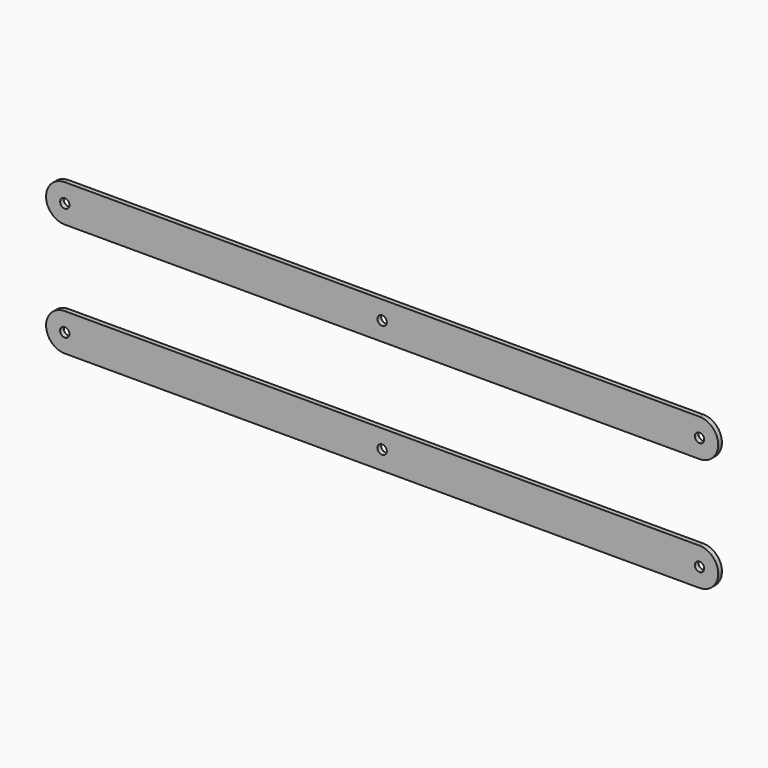
from build123d import *

# Parameters (mm, degrees)
F0_R     = 6.35
F1_DEPTH = 6.35


with BuildPart() as f1:
    # F0 (on Front) → F1 (new body)
    with BuildSketch(Plane.XZ):
        with BuildLine():
            Line((-863.6, 0), (-431.8, 0))
            ThreePointArc((-431.8, 0), (-457.2, 25.4), (-431.8, 50.8))
            Line((-431.8, 50.8), (-863.6, 50.8))
            ThreePointArc((-863.6, 50.8), (-845.639488, 43.360512), (-838.2, 25.4))
            ThreePointArc((-838.2, 25.4), (-845.639488, 7.439488), (-863.6, 0))
        make_face()
        with BuildLine():
            Line((-431.8, 0), (0, 0))
            ThreePointArc((0, 0), (-25.4, 25.4), (0, 50.8))
            Line((0, 50.8), (-431.8, 50.8))
            ThreePointArc((-431.8, 50.8), (-413.839488, 43.360512), (-406.4, 25.4))
            ThreePointArc((-406.4, 25.4), (-413.839488, 7.439488), (-431.8, 0))
        make_face()
        with BuildLine():
            ThreePointArc((0, 50.8), (-25.4, 25.4), (0, 0))
            Line((0, 0), (0, 19.05))
            ThreePointArc((0, 19.05), (-6.35, 25.4), (0, 31.75))
            Line((0, 31.75), (0, 50.8))
        make_face()
        with BuildLine():
            Line((-863.6, 19.05), (-863.6, 0))
            ThreePointArc((-863.6, 0), (-845.639488, 7.439488), (-838.2, 25.4))
            ThreePointArc((-838.2, 25.4), (-845.639488, 43.360512), (-863.6, 50.8))
            Line((-863.6, 50.8), (-863.6, 31.75))
            ThreePointArc((-863.6, 31.75), (-859.109872, 29.890128), (-857.25, 25.4))
            ThreePointArc((-857.25, 25.4), (-859.109872, 20.909872), (-863.6, 19.05))
        make_face()
        with BuildLine():
            Line((0, 19.05), (0, 0))
            ThreePointArc((0, 0), (17.960512, 7.439488), (25.4, 25.4))
            ThreePointArc((25.4, 25.4), (17.960512, 43.360512), (0, 50.8))
            Line((0, 50.8), (0, 31.75))
            ThreePointArc((0, 31.75), (4.490128, 29.890128), (6.35, 25.4))
            ThreePointArc((6.35, 25.4), (4.490128, 20.909872), (0, 19.05))
        make_face()
        with BuildLine():
            ThreePointArc((-431.8, 50.8), (-457.2, 25.4), (-431.8, 0))
            ThreePointArc((-431.8, 0), (-413.839488, 7.439488), (-406.4, 25.4))
            ThreePointArc((-406.4, 25.4), (-413.839488, 43.360512), (-431.8, 50.8))
        make_face()
        with Locations((-431.8, 25.4)):
            Circle(F0_R, mode=Mode.SUBTRACT)
        with BuildLine():
            ThreePointArc((-863.6, 50.8), (-889, 25.4), (-863.6, 0))
            Line((-863.6, 0), (-863.6, 19.05))
            ThreePointArc((-863.6, 19.05), (-869.95, 25.4), (-863.6, 31.75))
            Line((-863.6, 31.75), (-863.6, 50.8))
        make_face()
    extrude(amount=F1_DEPTH)


with BuildPart() as f2_1:
    # F2: copy of F1
    add(f1.part.moved(Location((0, 0, 154.41072))))


solid = Compound([f1.part, f2_1.part])
